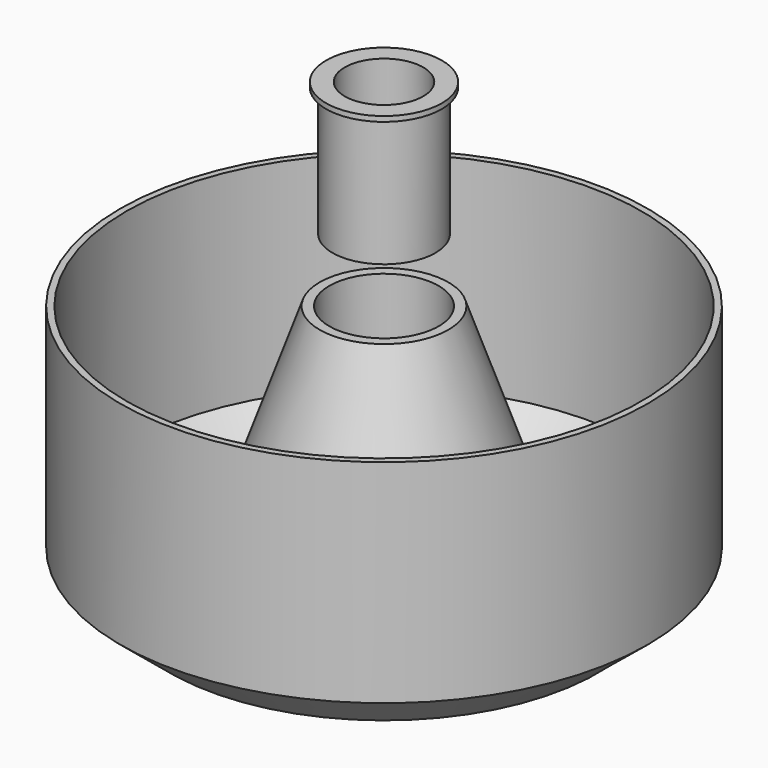
from build123d import *

# Parameters (mm, degrees)
SKETCH001_R     = 8.5
POCKET_DEPTH    = 40.001
CHAMFER_SIZE    = 1
CHAMFER001_SIZE = 1
SKETCH003_R     = 6.1
POCKET001_DEPTH = 20.801


with BuildPart() as obj1:
    # Sketch → Revolution (revolve)
    with BuildSketch(Plane.XZ):
        Polygon((0, 0), (-15.5, 0), (-22.5, -20), (-32.5, -20), (-41, -12.980809), (-41, 19.983914), (-40, 19.983914), (-40, -11.965131), (-32, -18.571429), (-23.5, -18.571429), (-10, 20), (0, 20), align=None)
    revolve(axis=Axis((0, 0, 0), (0, 0, 1)))

    # Sketch001 (on Face4 of Revolution) → Pocket (cut, through all)
    with BuildSketch(Plane(origin=(0, 0, 20), x_dir=(-1, 0, 0), z_dir=(0, 0, 1))):
        Circle(SKETCH001_R)
    extrude(amount=-POCKET_DEPTH, mode=Mode.SUBTRACT)

    # Chamfer
    chamfer_edges = [obj1.edges().sort_by_distance(p)[0] for p in [
        (22.5, 0, -20),
        (32.5, 0, -20),
    ]]
    chamfer(chamfer_edges, length=CHAMFER_SIZE)

    # Chamfer001
    chamfer001_edges = [obj1.edges().sort_by_distance(p)[0] for p in [
        (32, 0, -18.571429),
        (23.5, 0, -18.571429),
    ]]
    chamfer(chamfer001_edges, length=CHAMFER001_SIZE)


with BuildPart() as obj2:
    # Sketch002 → Revolution001 (revolve)
    with BuildSketch(Plane.XZ):
        Polygon((0, 29.870868), (8, 29.870868), (8, 49.870868), (9, 49.870868), (9, 50.670868), (0, 50.670868), align=None)
    revolve(axis=Axis((0, 0, 0), (0, 0, 1)))

    # Sketch003 (on Face5 of Revolution001) → Pocket001 (cut, through all)
    with BuildSketch(Plane(origin=(0, 0, 50.670868), x_dir=(-1, 0, 0), z_dir=(0, 0, 1))):
        Circle(SKETCH003_R)
    extrude(amount=-POCKET001_DEPTH, mode=Mode.SUBTRACT)


solid = Compound([obj1.part, obj2.part])
